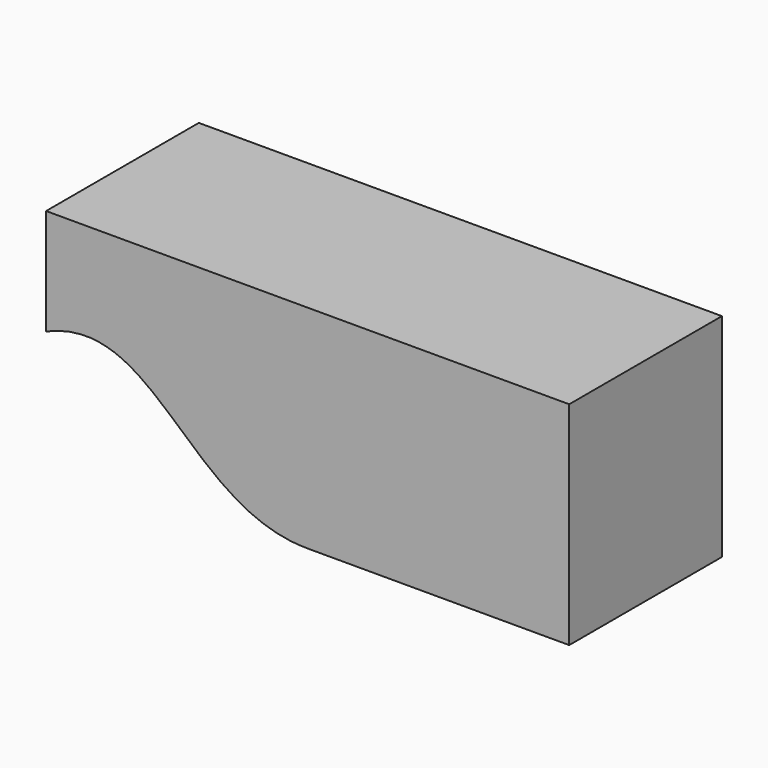
from build123d import *

# Parameters (mm, degrees)
F1_DEPTH = 25


with BuildPart() as f1:
    # F0 (on Front) → F1 (new body)
    with BuildSketch(Plane.XZ):
        with BuildLine():
            Line((0, -13.88579), (34.255888, -13.88579))
            Line((34.255888, -13.88579), (34.255888, 13.88579))
            Line((34.255888, 13.88579), (-34.255888, 13.88579))
            Line((-34.255888, 13.88579), (-34.255888, 0))
            add(Edge.make_bspline(
                [(-34.255888, 0), (-20.009076, 6.145644), (-15.721414, -13.88579), (0, -13.88579)],
                knots=[0, 0, 0, 0, 36.963239, 36.963239, 36.963239, 36.963239], degree=3))
        make_face()
    extrude(amount=F1_DEPTH)


solid = f1.part
